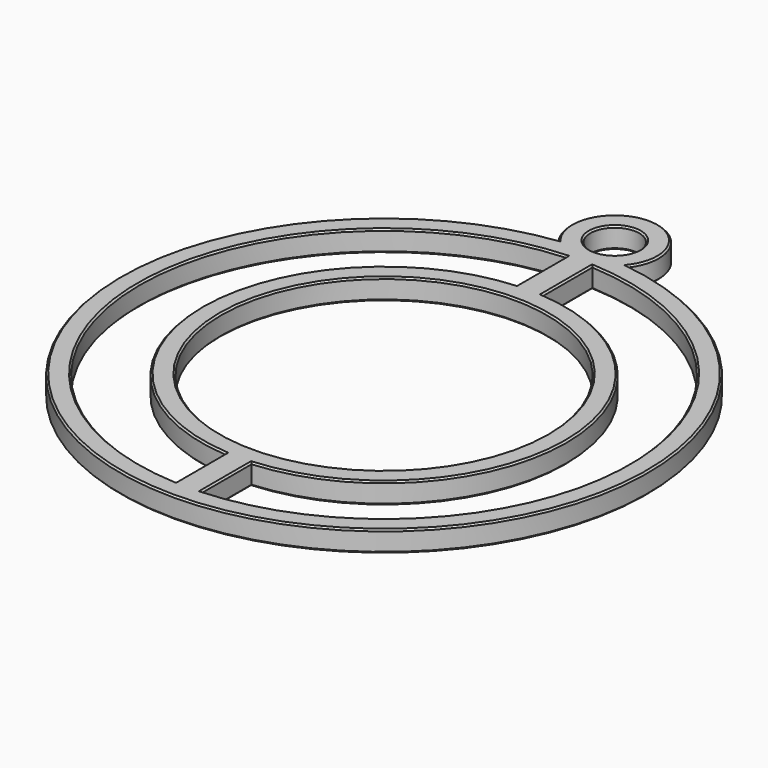
from build123d import *

# Parameters (mm, degrees)
F0_R     = 12.7
F0_R_2   = 1.905
F1_DEPTH = 1.651
F2_SIZE  = 0.127


with BuildPart() as f1:
    # F0 (on Top) → F1 (new body)
    with BuildSketch(Plane.XY):
        with BuildLine():
            ThreePointArc((2.721658, 20.393186), (0, 25.908), (-2.721658, 20.393186))
            ThreePointArc((-2.721658, 20.393186), (0, -20.574), (2.721658, 20.393186))
        make_face()
        with BuildLine():
            ThreePointArc((-1.016, -19.022887), (-19.05, 0), (-1.016, 19.022887))
            Line((-1.016, 19.022887), (-1.016, 14.187668))
            ThreePointArc((-1.016, 14.187668), (-14.224, 0), (-1.016, -14.187668))
            Line((-1.016, -14.187668), (-1.016, -19.022887))
        make_face(mode=Mode.SUBTRACT)
        Circle(F0_R, mode=Mode.SUBTRACT)
        with BuildLine():
            Line((1.016, 14.187668), (1.016, 19.022887))
            ThreePointArc((1.016, 19.022887), (19.05, 0), (1.016, -19.022887))
            Line((1.016, -19.022887), (1.016, -14.187668))
            ThreePointArc((1.016, -14.187668), (14.224, 0), (1.016, 14.187668))
        make_face(mode=Mode.SUBTRACT)
        with Locations((0, 22.479)):
            Circle(F0_R_2, mode=Mode.SUBTRACT)
    extrude(amount=F1_DEPTH)

    # F2
    f2_edges = [f1.edges().sort_by_distance(p)[0] for p in [
        (0, -20.574, 1.651),
        (0, 25.908, 1.651),
        (-19.05, 0, 1.651),
        (-1.016, 16.605278, 1.651),
        (-14.224, 0, 1.651),
        (-1.016, -16.605278, 1.651),
        (-12.7, 0, 1.651),
        (1.016, -16.605278, 1.651),
        (14.224, 0, 1.651),
        (1.016, 16.605278, 1.651),
        (19.05, 0, 1.651),
        (-1.905, 22.479, 1.651),
        (0, -20.574, 0),
        (0, 25.908, 0),
        (-19.05, 0, 0),
        (-1.016, 16.605278, 0),
        (-14.224, 0, 0),
        (-1.016, -16.605278, 0),
        (-12.7, 0, 0),
        (1.016, -16.605278, 0),
        (14.224, 0, 0),
        (1.016, 16.605278, 0),
        (19.05, 0, 0),
        (-1.905, 22.479, 0),
    ]]
    chamfer(f2_edges, length=F2_SIZE)


solid = f1.part
